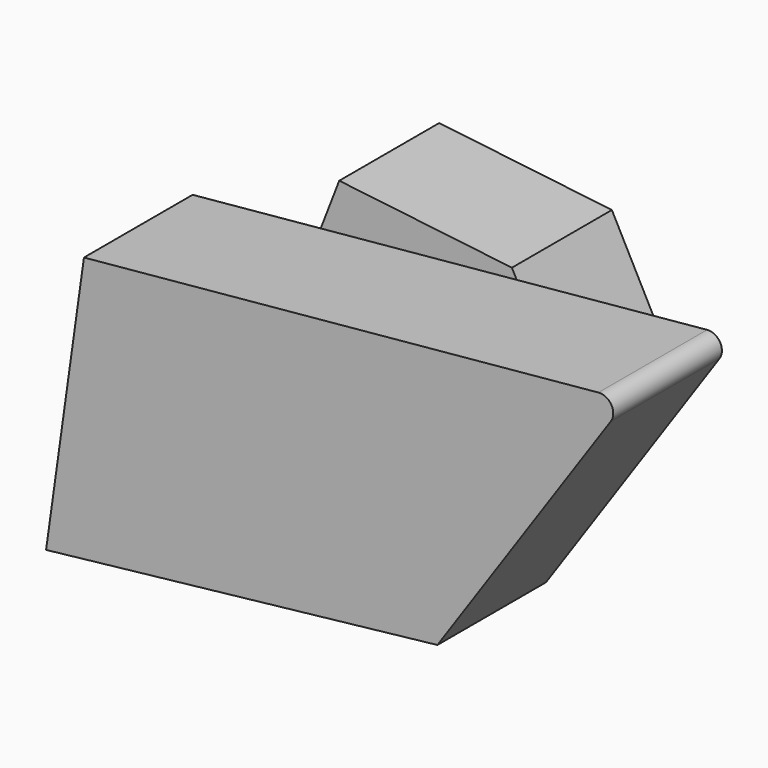
from build123d import *

# Parameters (mm, degrees)
F1_DEPTH = 30
F4_DEPTH = 50
F5_R     = 5
F7_DEPTH = 46


with BuildPart() as f1:
    # F0 (on Front) → F1 (new body)
    with BuildSketch(Plane.XZ):
        Polygon((26.3627171516, 40.0704815984), (-62.9477128386, 36.8853881955), (-46.8072779477, -22.2996752709), (34.61227566, -16.0123351961), align=None)
    extrude(amount=F1_DEPTH)


with BuildPart() as f4:
    # F3 (on Front) → F4 (new body)
    with BuildSketch(Plane.XZ):
        Polygon((101.3598069549, 53.0752539635), (-98.6401930451, 34.245274961), (-112.5807955861, -65.0398209691), (31.4720973372, -49.0130968392), align=None)
    extrude(amount=F4_DEPTH)

    # F5
    f5_edges = [f4.edges().sort_by_distance(p)[0] for p in [
        (101.359807, -25, 53.075254),
    ]]
    fillet(f5_edges, radius=F5_R)

    # F6 (on Front) → F7 (join)
    with BuildSketch(Plane.XZ):
        Polygon((18.8986193389, 48.8469228148), (-44.6650013328, 56.3618317246), (-65.33100456, 2.8180915397), (9.5049822703, -16.9085487723), (42.0695990324, 4.3836981058), align=None)
    extrude(amount=-F7_DEPTH)


solid = f4.part
